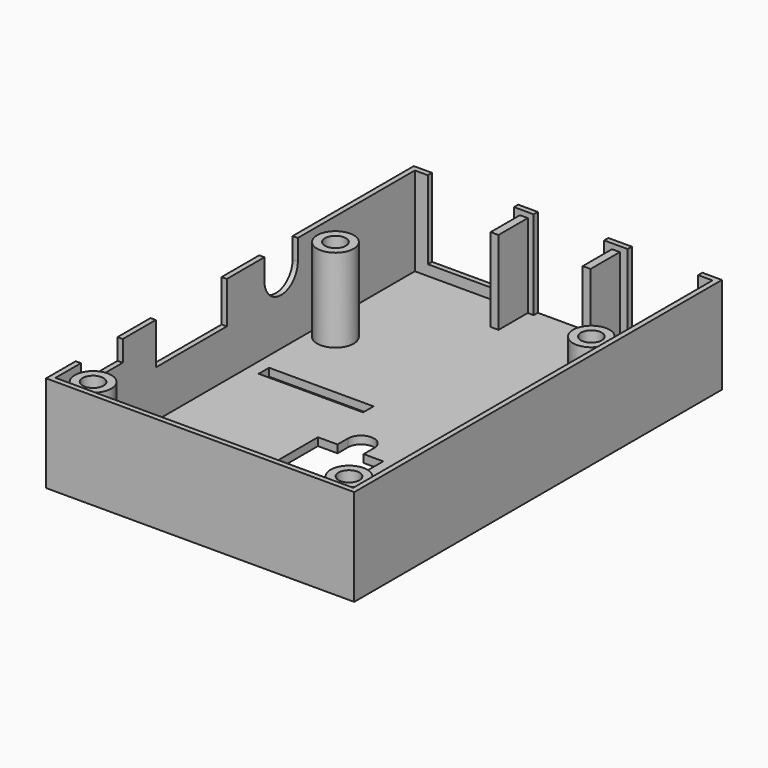
from build123d import *

# Parameters (mm, degrees)
SKETCH_W        = 59
SKETCH_H        = 88
SKETCH_R        = 2
SKETCH_W_2      = 20
SKETCH_H_2      = 2.5
SKETCH_W_3      = 6
SKETCH_H_3      = 50
PAD_DEPTH       = 18.5
SKETCH001_W     = 57
SKETCH001_H     = 86
POCKET_DEPTH    = 17
SKETCH003_W     = 16.5
SKETCH003_H     = 15
SKETCH003_W_2   = 13.5
SKETCH003_H_2   = 17
POCKET001_DEPTH = 1
SKETCH004_R     = 3.5
SKETCH004_R_2   = 2
SKETCH004_W     = 1.5
SKETCH004_H     = 7
PAD001_DEPTH    = 16
SKETCH005_W     = 10
SKETCH005_H     = 4
SKETCH005_W_2   = 17
SKETCH005_H_2   = 8
POCKET002_DEPTH = 1
SKETCH006_R     = 3
POCKET003_DEPTH = 3.5


with BuildPart() as part:
    # Sketch → Pad (new body)
    with BuildSketch(Plane.XY):
        with Locations((28, 42.5)):
            Rectangle(SKETCH_W, SKETCH_H)
        with Locations((3.5, 61.5)):
            Circle(SKETCH_R, mode=Mode.SUBTRACT)
        with Locations((52.5, 61.5)):
            Circle(SKETCH_R, mode=Mode.SUBTRACT)
        with Locations((52.5, 3.5)):
            Circle(SKETCH_R, mode=Mode.SUBTRACT)
        with Locations((3.5, 3.5)):
            Circle(SKETCH_R, mode=Mode.SUBTRACT)
        with Locations((12, 46.25)):
            Rectangle(SKETCH_W_2, SKETCH_H_2, mode=Mode.SUBTRACT)
        with BuildLine():
            Line((21.75, 34.5), (25.5, 34.5))
            Line((25.5, 37), (25.5, 34.5))
            ThreePointArc((30.5, 37), (28, 39.5), (25.5, 37))
            Line((30.5, 37), (30.5, 34.5))
            Line((30.5, 34.5), (34.25, 34.5))
            Line((34.25, 34.5), (34.25, 10.5))
            Line((34.25, 10.5), (30.5, 10.5))
            Line((30.5, 8), (30.5, 10.5))
            ThreePointArc((25.5, 8), (28, 5.5), (30.5, 8))
            Line((25.5, 8), (25.5, 10.5))
            Line((25.5, 10.5), (21.75, 10.5))
            Line((21.75, 10.5), (21.75, 34.5))
        make_face(mode=Mode.SUBTRACT)
        with Locations((52.5, 32.5)):
            Rectangle(SKETCH_W_3, SKETCH_H_3, mode=Mode.SUBTRACT)
    extrude(amount=PAD_DEPTH)

    # Sketch001 → Pocket (cut)
    with BuildSketch(Plane.XY.offset(18.5)):
        with Locations((28, 42.5)):
            Rectangle(SKETCH001_W, SKETCH001_H)
    extrude(amount=-POCKET_DEPTH, mode=Mode.SUBTRACT)

    # Sketch003 → Pocket001 (cut)
    with BuildSketch(Plane(origin=(0, 86.5, 0), x_dir=(-1, 0, 0), z_dir=(0, 1, 0))):
        with Locations((-10.25, 11)):
            Rectangle(SKETCH003_W, SKETCH003_H)
        with Locations((-29, 10)):
            Rectangle(SKETCH003_W_2, SKETCH003_H_2)
        with Locations((-47, 10)):
            Rectangle(SKETCH003_W_2, SKETCH003_H_2)
    extrude(amount=-POCKET001_DEPTH, mode=Mode.SUBTRACT)

    # Sketch004 → Pad001 (new body)
    with BuildSketch(Plane.XY.offset(1.5)):
        with Locations((3.5, 61.5)):
            Circle(SKETCH004_R)
        with Locations((3.5, 61.5)):
            Circle(SKETCH004_R_2, mode=Mode.SUBTRACT)
        with Locations((52.5, 61.5)):
            Circle(SKETCH004_R)
        with Locations((52.5, 61.5)):
            Circle(SKETCH004_R_2, mode=Mode.SUBTRACT)
        with Locations((52.5, 3.5)):
            Circle(SKETCH004_R)
        with Locations((52.5, 3.5)):
            Circle(SKETCH004_R_2, mode=Mode.SUBTRACT)
        with Locations((3.5, 3.5)):
            Circle(SKETCH004_R)
        with Locations((3.5, 3.5)):
            Circle(SKETCH004_R_2, mode=Mode.SUBTRACT)
        with Locations((20.375, 82)):
            Rectangle(SKETCH004_W, SKETCH004_H)
        with Locations((38, 82)):
            Rectangle(SKETCH004_W, SKETCH004_H)
    extrude(amount=PAD001_DEPTH)

    # Sketch005 → Pocket002 (cut)
    with BuildSketch(Plane(origin=(-1.5, 0, 0), x_dir=(0, -1, 0), z_dir=(-1, 0, 0))):
        with Locations((-10.6, 16.5)):
            Rectangle(SKETCH005_W, SKETCH005_H)
        with Locations((-32, 14.5)):
            Rectangle(SKETCH005_W_2, SKETCH005_H_2)
        with BuildLine():
            Line((-57.5, 18.5), (-49.5, 18.5))
            Line((-49.5, 18.5), (-49.5, 14.5))
            ThreePointArc((-57.5, 14.5), (-53.5, 10.5), (-49.5, 14.5))
            Line((-57.5, 14.5), (-57.5, 18.5))
        make_face()
    extrude(amount=-POCKET002_DEPTH, mode=Mode.SUBTRACT)

    # Sketch006 → Pocket003 (cut)
    with BuildSketch(Plane(origin=(0, 0, 0), x_dir=(1, 0, 0), z_dir=(0, 0, -1))):
        with Locations((3.5, -3.5)):
            Circle(SKETCH006_R)
        with Locations((52.5, -3.5)):
            Circle(SKETCH006_R)
        with Locations((52.5, -61.5)):
            Circle(SKETCH006_R)
        with Locations((3.5, -61.5)):
            Circle(SKETCH006_R)
    extrude(amount=-POCKET003_DEPTH, mode=Mode.SUBTRACT)


solid = part.part
